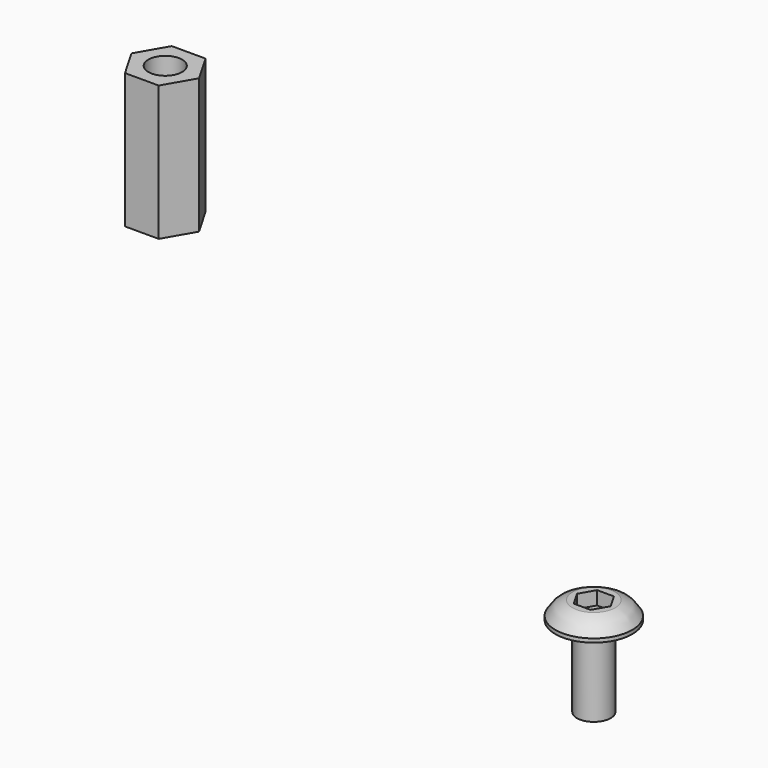
from build123d import *

# Parameters (mm, degrees)
F0_W     = 1.25
F0_H     = 6
F3_DEPTH = 1
F4_R     = 1.25
F5_DEPTH = 10


with BuildPart() as f1:
    # F0 (on Front) → F1 (revolve)
    with BuildSketch(Plane.XZ):
        with Locations((0.625, 3)):
            Rectangle(F0_W, F0_H)
        with BuildLine():
            Line((0, 7.3), (0, 6))
            Line((0, 6), (1.25, 6))
            Line((1.25, 6), (2.85, 6))
            Line((2.85, 6), (2.85, 6.276))
            add(Edge.make_bspline(
                [(2.85, 6.276), (2.7105947611, 6.5077565069), (2.424505943, 6.9833695162), (1.8649721857, 7.1926814812), (1.578087802, 7.3)],
                knots=[0, 0, 0, 0, 0.4872795789, 1, 1, 1, 1], degree=3))
            Line((1.578087802, 7.3), (0, 7.3))
        make_face()
    revolve(axis=Axis((0, 0, 3), (0, 0, -1)))

    # F2 (on face) → F3 (cut)
    with BuildSketch(Plane.XY.offset(7.3)):
        Polygon((-1.25, 0), (1.25, 0), (0.625, 1.0825317547), (-0.625, 1.0825317547), align=None)
        Polygon((0.625, -1.0825317547), (1.25, 0), (-1.25, 0), (-0.625, -1.0825317547), align=None)
    extrude(amount=-F3_DEPTH, mode=Mode.SUBTRACT)


with BuildPart() as f5:
    # F4 (on Top) → F5 (new body)
    with BuildSketch(Plane.XY):
        Polygon((-56.666437649, 30.5490305749), (-55.416437649, 32.7140940844), (-56.666437649, 34.8791575939), (-59.166437649, 34.8791575939), (-60.416437649, 32.7140940844), (-59.166437649, 30.5490305749), align=None)
        with Locations((-57.916437649, 32.7140940844)):
            Circle(F4_R, mode=Mode.SUBTRACT)
    extrude(amount=F5_DEPTH)


solid = Compound([f1.part, f5.part])
